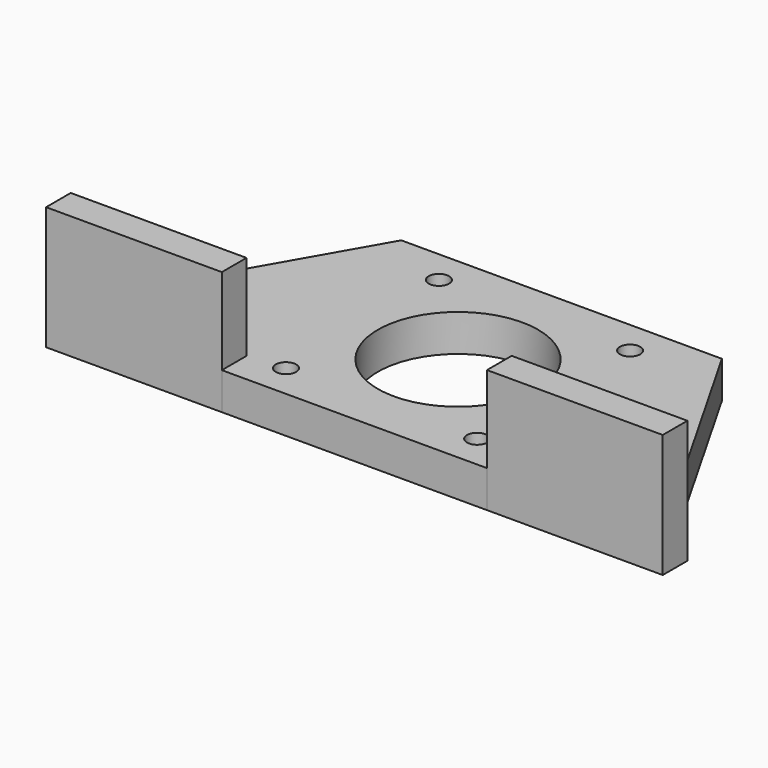
from build123d import *

# Parameters (mm, degrees)
SKETCH_R              = 1.65
SKETCH_R_2            = 13
PAD_DEPTH             = 6
BOX_W                 = 28.5
BOX_H                 = 5
BOX_DEPTH             = 20
CLONE_PLACEMENT_ANGLE = 180


with BuildPart() as pad:
    # Sketch → Pad (new body)
    with BuildSketch(Plane.XY):
        Polygon((-26, 42), (26, 42), (50, 0), (-50, 0), align=None)
        with Locations((-15.5, 36.5)):
            Circle(SKETCH_R, mode=Mode.SUBTRACT)
        with Locations((15.5, 36.5)):
            Circle(SKETCH_R, mode=Mode.SUBTRACT)
        with Locations((-15.5, 5.5)):
            Circle(SKETCH_R, mode=Mode.SUBTRACT)
        with Locations((15.5, 5.5)):
            Circle(SKETCH_R, mode=Mode.SUBTRACT)
        with Locations((0, 21)):
            Circle(SKETCH_R_2, mode=Mode.SUBTRACT)
    extrude(amount=PAD_DEPTH)


with BuildPart() as soporte_vertical:
    # Box → Box (new body)
    with BuildSketch(Plane(origin=(-50, 0, 0), x_dir=(1, 0, 0), z_dir=(0, 0, 1))):
        with Locations((14.25, 2.5)):
            Rectangle(BOX_W, BOX_H)
    extrude(amount=BOX_DEPTH)


with BuildPart() as clone:
    # Clone base: copy of soporte_vertical
    add(soporte_vertical.part)


with BuildPart() as clone_1:
    # Clone placement: moved
    add(clone.part.moved(Location((0, 5, 0))).rotate(Axis((0, 5, 0), (0, 0, 1)), CLONE_PLACEMENT_ANGLE))


solid = Compound([pad.part, soporte_vertical.part, clone_1.part])
